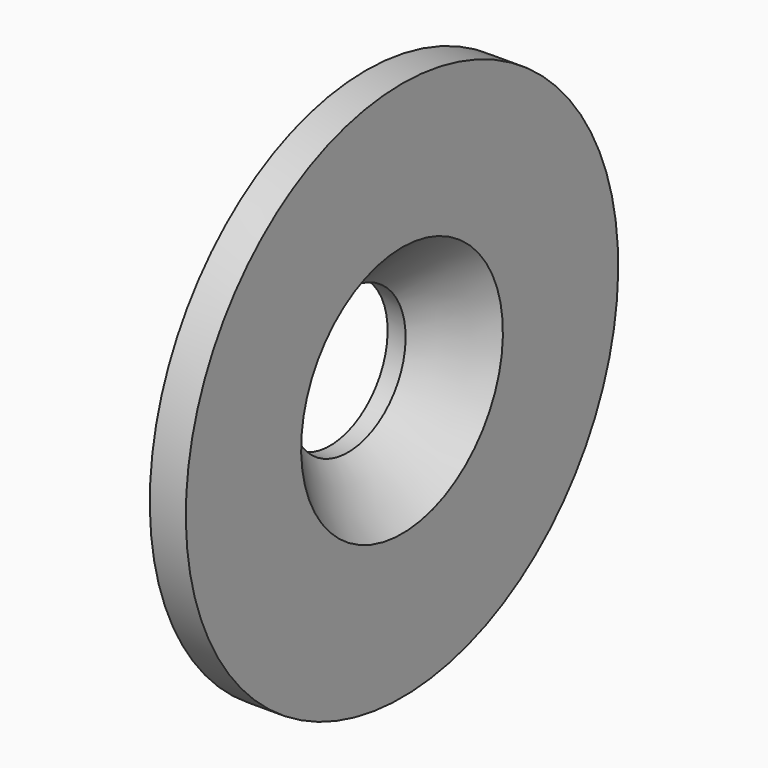
from build123d import *

# Parameters (mm, degrees)
CHAMFER_SIZE = 3


with BuildPart() as part:
    # Sketch → Revolution (revolve)
    with BuildSketch(Plane.XZ):
        Polygon((0, 4), (0, 10.5), (2, 10.5), (2, 15), (4, 15), (4, 4), align=None)
    revolve(axis=Axis((0, 0, 0), (1, 0, 0)))

    # Chamfer
    chamfer_edges = [part.edges().sort_by_distance(p)[0] for p in [
        (4, 0, -4),
    ]]
    chamfer(chamfer_edges, length=CHAMFER_SIZE)


solid = part.part
